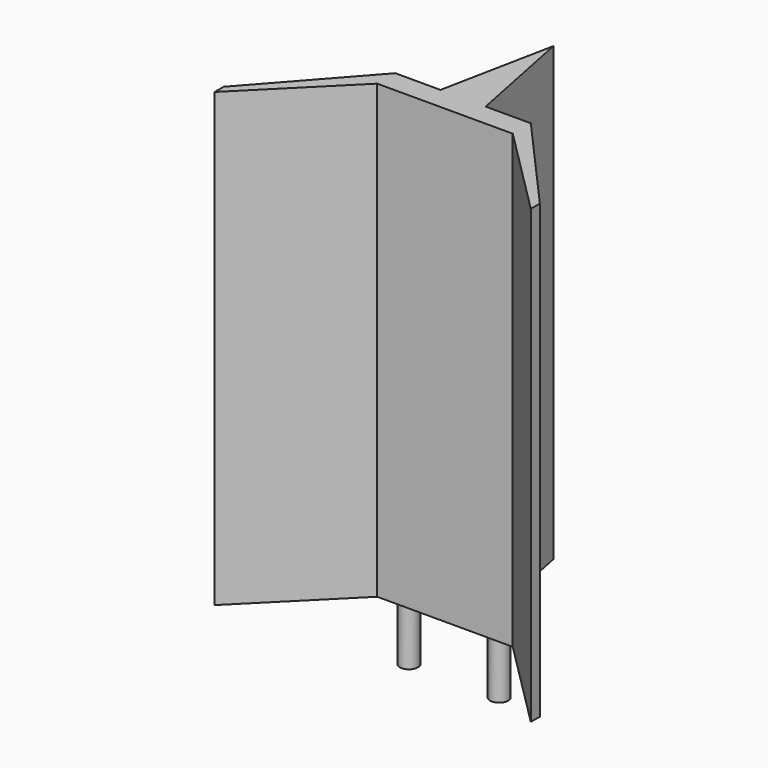
from build123d import *

# Parameters (mm, degrees)
F0_R     = 2.54
F1_DEPTH = 127
F2_DEPTH = 15.875


with BuildPart() as f1:
    # F0 (on Top) → F1 (new body)
    with BuildSketch(Plane.XY):
        Polygon((-19.05, 0), (0, 0), (19.05, 0), (44.45, -25.4), (44.45, -22.225), (19.05, 6.35), (6.35, 6.35), (0, 38.1), (-6.35, 6.35), (-19.05, 6.35), (-44.45, -22.225), (-44.45, -25.4), align=None)
        with Locations((-12.7, 3.175)):
            Circle(F0_R, mode=Mode.SUBTRACT)
        with Locations((12.7, 3.175)):
            Circle(F0_R, mode=Mode.SUBTRACT)
        with Locations((-12.7, 3.175)):
            Circle(F0_R)
        with Locations((12.7, 3.175)):
            Circle(F0_R)
    extrude(amount=F1_DEPTH)

    # F0 (on Top) → F2 (join)
    with BuildSketch(Plane.XY):
        with Locations((-12.7, 3.175)):
            Circle(F0_R)
        with Locations((12.7, 3.175)):
            Circle(F0_R)
    extrude(amount=-F2_DEPTH)


solid = f1.part
